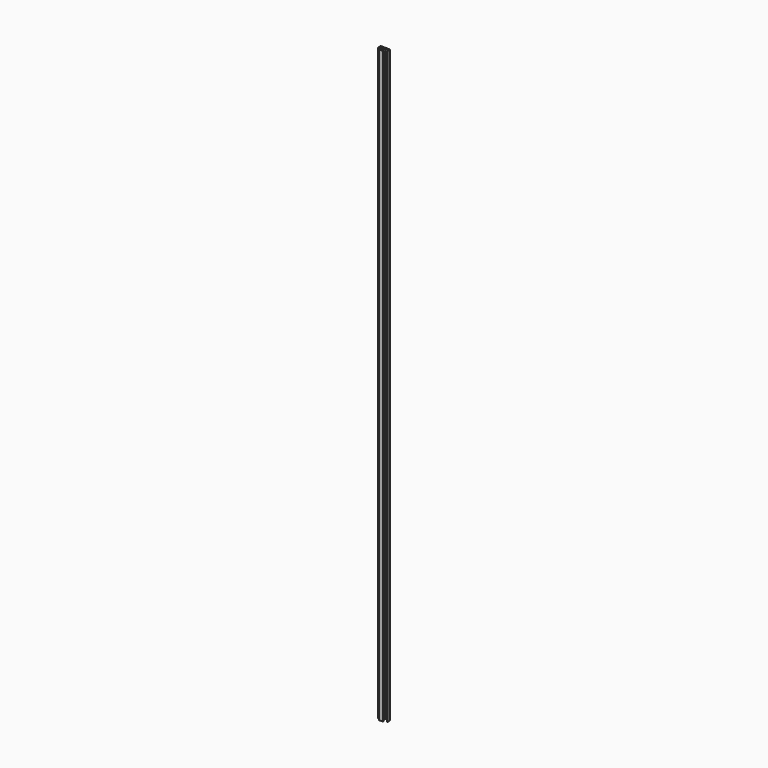
from build123d import *

# Parameters (mm, degrees)
F1_DEPTH = 2400
F2_R     = 2
F3_R     = 1


with BuildPart() as f1:
    # F0 (on Top) → F1 (new body)
    with BuildSketch(Plane.XY):
        Polygon((20, 10), (-20, 10), (-20, -5), (-17, -5), (-17, 7), (-2, 7), (-2, -9.5), (-8.5, -9.5), (-8.5, -12.5), (0, -12.5), (8.5, -12.5), (8.5, -9.5), (2, -9.5), (2, 7), (17, 7), (17, -5), (20, -5), align=None)
    extrude(amount=F1_DEPTH)

    # F2
    f2_edges = [f1.edges().sort_by_distance(p)[0] for p in [
        (-20, 10, 1200),
        (20, 10, 1200),
    ]]
    fillet(f2_edges, radius=F2_R)

    # F3
    f3_edges = [f1.edges().sort_by_distance(p)[0] for p in [
        (-20, -5, 1200),
        (-17, -5, 1200),
        (-17, 7, 1200),
        (-8.5, -12.5, 1200),
        (8.5, -12.5, 1200),
        (8.5, -9.5, 1200),
        (2, 7, 1200),
        (17, -5, 1200),
        (20, -5, 1200),
        (17, 7, 1200),
        (-2, 7, 1200),
        (-8.5, -9.5, 1200),
        (-2, -9.5, 1200),
        (2, -9.5, 1200),
    ]]
    fillet(f3_edges, radius=F3_R)


solid = f1.part
